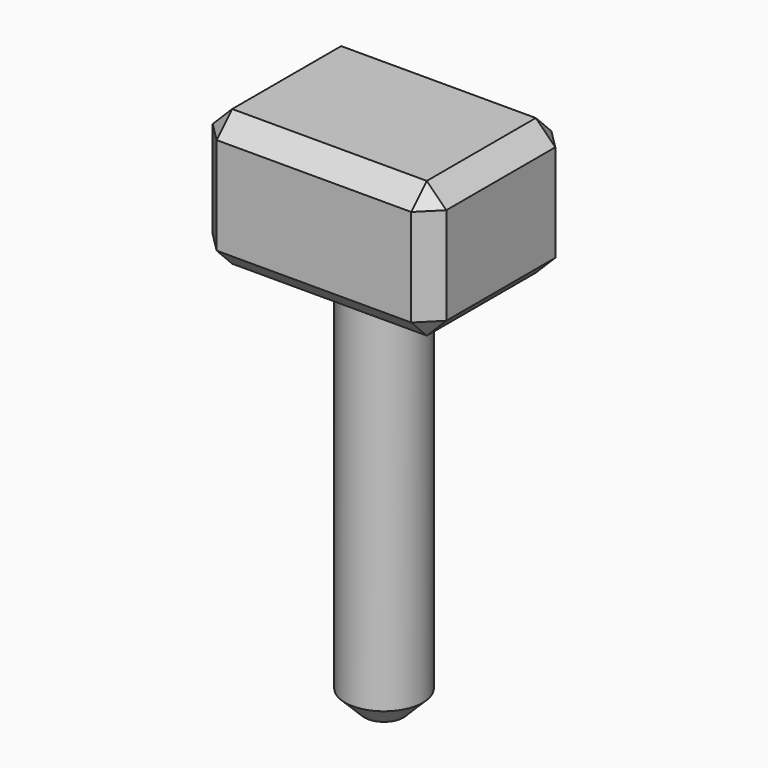
from build123d import *

# Parameters (mm, degrees)
F0_W     = 60
F0_H     = 45
F0_R     = 10
F1_DEPTH = 35
F2_DEPTH = 100
F3_SIZE  = 5
F4_SIZE  = 5


with BuildPart() as f1:
    # F0 (on Top) → F1 (new body)
    with BuildSketch(Plane.XY):
        Rectangle(F0_W, F0_H)
        Circle(F0_R, mode=Mode.SUBTRACT)
        Circle(F0_R)
    extrude(amount=F1_DEPTH)

    # F0 (on Top) → F2 (join)
    with BuildSketch(Plane.XY):
        Circle(F0_R)
    extrude(amount=-F2_DEPTH)

    # F3
    f3_edges = [f1.edges().sort_by_distance(p)[0] for p in [
        (-30, -22.5, 17.5),
        (30, -22.5, 17.5),
        (30, 22.5, 17.5),
        (-30, 22.5, 17.5),
        (0, 22.5, 35),
        (0, 22.5, 0),
        (0, -22.5, 35),
        (0, -22.5, 0),
        (-30, 0, 0),
        (-30, 0, 35),
        (30, 0, 35),
        (30, 0, 0),
    ]]
    chamfer(f3_edges, length=F3_SIZE)

    # F4
    f4_edges = [f1.edges().sort_by_distance(p)[0] for p in [
        (10, 0, -50),
        (-10, 0, 0),
        (-10, 0, -100),
    ]]
    chamfer(f4_edges, length=F4_SIZE)


solid = f1.part
